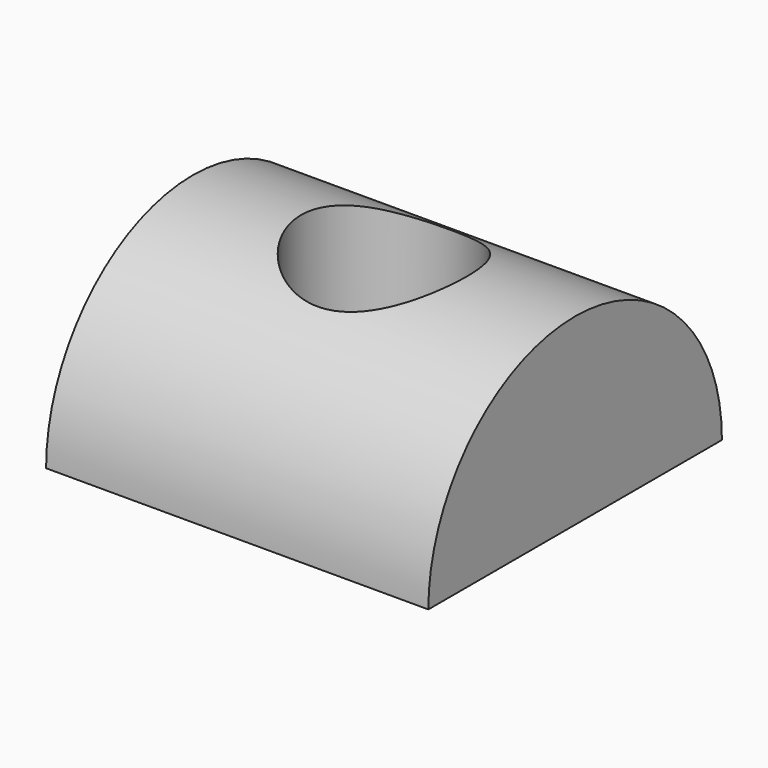
from build123d import *

# Parameters (mm, degrees)
F1_DEPTH = 44.45
F2_R     = 9.652
F3_DEPTH = 21.337


with BuildPart() as f1:
    # F0 (on Right) → F1 (new body)
    with BuildSketch(Plane.YZ):
        with BuildLine():
            Line((-21.336, 0), (21.336, 0))
            ThreePointArc((21.336, 0), (0, 21.336), (-21.336, 0))
        make_face()
    extrude(amount=-F1_DEPTH)

    # F2 (on face) → F3 (cut, through all)
    with BuildSketch(Plane(origin=(0, 0, 0), x_dir=(1, 0, 0), z_dir=(0, 0, -1))):
        with Locations((-22.225, 0)):
            Circle(F2_R)
    extrude(amount=-F3_DEPTH, mode=Mode.SUBTRACT)


solid = f1.part
